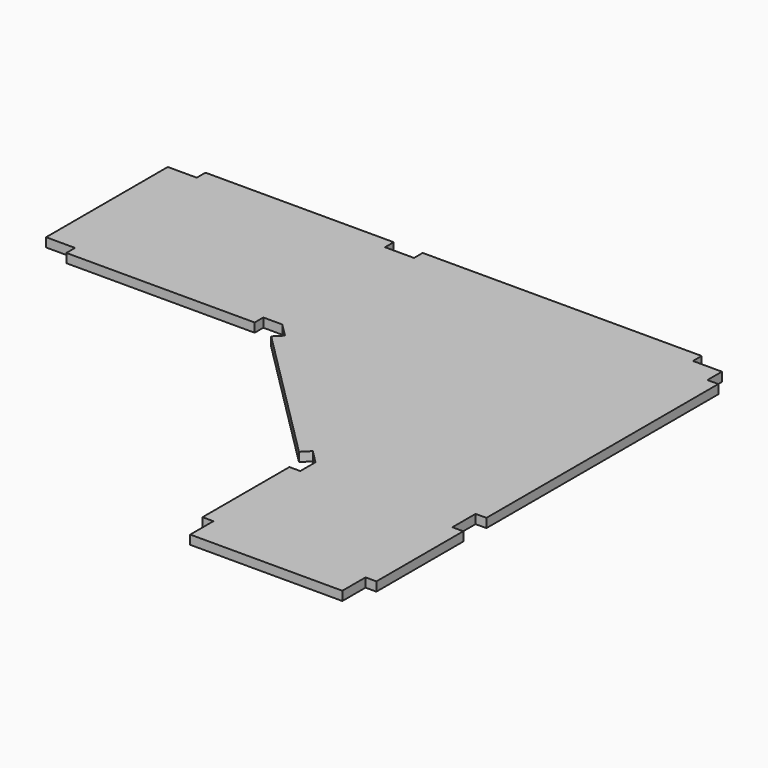
from build123d import *

# Parameters (mm, degrees)
F1_DEPTH = 15.875


with BuildPart() as f1:
    # F0 (on Top) → F1 (new body)
    with BuildSketch(Plane.XY):
        Polygon((209.55, -374.65), (209.55, -425.45), (476.25, -425.45), (476.25, -374.65), (495.3, -374.65), (495.3, -184.260472), (476.25, -184.260472), (476.25, -133.460472), (495.3, -133.460472), (495.3, 374.65), (476.25, 374.65), (476.25, 406.4), (425.45, 406.4), (425.45, 425.45), (-63.610472, 425.45), (-63.610472, 406.4), (-114.410472, 406.4), (-114.410472, 425.45), (-444.5, 425.45), (-444.5, 406.4), (-495.3, 406.4), (-495.3, 139.7), (-444.5, 139.7), (-444.5, 120.65), (-114.410472, 120.65), (-114.410472, 139.7), (-81.119703, 139.7), (-57.579575, 116.159872), (-71.04996, 102.689488), (172.539488, -140.89996), (186.009872, -127.429575), (209.55, -150.969703), (209.55, -184.260472), (190.5, -184.260472), (190.5, -374.65), align=None)
    extrude(amount=F1_DEPTH)


solid = f1.part
